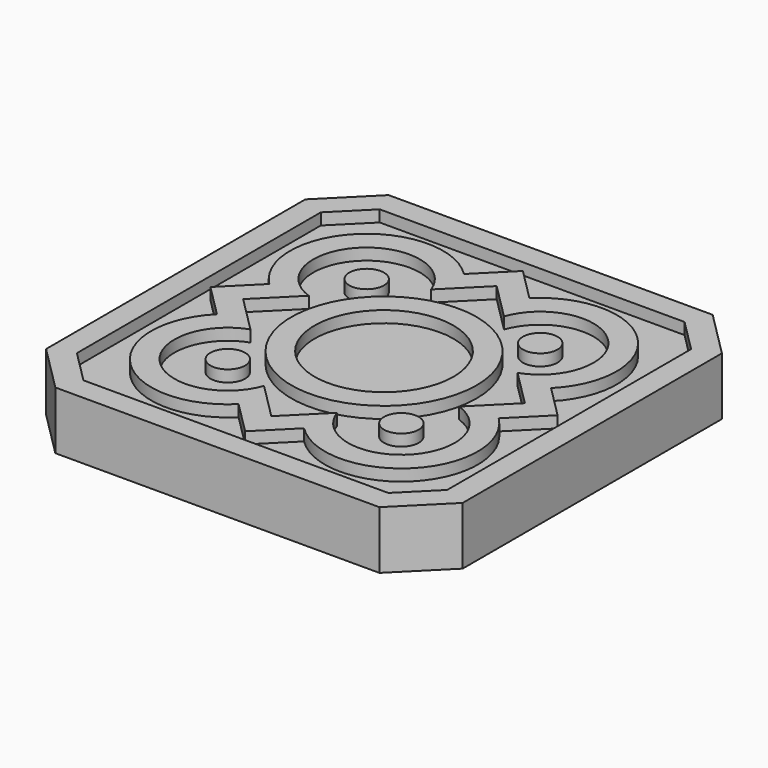
from build123d import *

# Parameters (mm, degrees)
F1_DEPTH = 6.35
F2_R     = 12.7
F2_R_2   = 9.525
F2_R_3   = 2.38125
F3_DEPTH = 1.5875
F4_W     = 3.175
F4_H     = 25.4
F5_DEPTH = 3.175
F6_W     = 38.1
F6_H     = 25.4
F7_DEPTH = 3.175


with BuildPart() as f1:
    # F0 (on Top) → F1 (new body)
    with BuildSketch(Plane.XY):
        Polygon((-6.35, 0), (-50.8, 0), (-57.15, -6.35), (-57.15, -50.8), (-50.8, -57.15), (-6.35, -57.15), (0, -50.8), (0, -6.35), align=None)
    extrude(amount=F1_DEPTH)

    # F2 (on face) → F3 (join)
    with BuildSketch(Plane.XY.offset(6.35)):
        Polygon((0, -6.35), (-6.35, 0), (-50.8, 0), (-57.15, -6.35), (-57.15, -50.8), (-50.8, -57.15), (-6.35, -57.15), (0, -50.8), align=None)
        Polygon((-3.175, -7.665128), (-3.175, -49.484872), (-7.665128, -53.975), (-49.484872, -53.975), (-53.975, -49.484872), (-53.975, -7.665128), (-49.484872, -3.175), (-7.665128, -3.175), align=None, mode=Mode.SUBTRACT)
        with BuildLine():
            Line((-28.575, -52.3875), (-24.084872, -47.897372))
            ThreePointArc((-24.084872, -47.897372), (-9.252628, -47.897372), (-9.252628, -33.065128))
            Line((-9.252628, -33.065128), (-4.7625, -28.575))
            Line((-4.7625, -28.575), (-9.252628, -24.084872))
            ThreePointArc((-9.252628, -24.084872), (-9.252628, -9.252628), (-24.084872, -9.252628))
            Line((-24.084872, -9.252628), (-28.575, -4.7625))
            Line((-28.575, -4.7625), (-33.065128, -9.252628))
            ThreePointArc((-33.065128, -9.252628), (-47.897372, -9.252628), (-47.897372, -24.084872))
            Line((-47.897372, -24.084872), (-52.3875, -28.575))
            Line((-52.3875, -28.575), (-47.897372, -33.065128))
            ThreePointArc((-47.897372, -33.065128), (-47.897372, -47.897372), (-33.065128, -47.897372))
            Line((-33.065128, -47.897372), (-28.575, -52.3875))
        make_face()
        with BuildLine():
            ThreePointArc((-23.572089, -14.255539), (-11.497692, -11.497692), (-14.255539, -23.572089))
            Line((-14.255539, -23.572089), (-9.252628, -28.575))
            Line((-9.252628, -28.575), (-14.255539, -33.577911))
            ThreePointArc((-14.255539, -33.577911), (-11.497692, -45.652308), (-23.572089, -42.894461))
            Line((-23.572089, -42.894461), (-28.575, -47.897372))
            Line((-28.575, -47.897372), (-33.577911, -42.894461))
            ThreePointArc((-33.577911, -42.894461), (-45.652308, -45.652308), (-42.894461, -33.577911))
            Line((-42.894461, -33.577911), (-47.897372, -28.575))
            Line((-47.897372, -28.575), (-42.894461, -23.572089))
            ThreePointArc((-42.894461, -23.572089), (-45.652308, -11.497692), (-33.577911, -14.255539))
            Line((-33.577911, -14.255539), (-28.575, -9.252628))
            Line((-28.575, -9.252628), (-23.572089, -14.255539))
        make_face(mode=Mode.SUBTRACT)
        with Locations((-28.575, -28.575)):
            Circle(F2_R)
        with Locations((-28.575, -28.575)):
            Circle(F2_R_2, mode=Mode.SUBTRACT)
        with Locations((-40.48125, -40.48125)):
            Circle(F2_R_3)
        with Locations((-16.66875, -40.48125)):
            Circle(F2_R_3)
        with Locations((-16.66875, -16.66875)):
            Circle(F2_R_3)
        with Locations((-40.48125, -16.66875)):
            Circle(F2_R_3)
    extrude(amount=F3_DEPTH)

    # F4 (on face) → F5 (join)
    with BuildSketch(Plane(origin=(0, 0, 0), x_dir=(1, 0, 0), z_dir=(0, 0, -1))):
        with Locations((-46.0375, 28.575)):
            Rectangle(F4_W, F4_H)
        with Locations((-11.1125, 28.575)):
            Rectangle(F4_W, F4_H)
    extrude(amount=F5_DEPTH)

    # F6 (on face) → F7 (join)
    with BuildSketch(Plane(origin=(0, 0, -3.175), x_dir=(1, 0, 0), z_dir=(0, 0, -1))):
        with Locations((-28.575, 28.575)):
            Rectangle(F6_W, F6_H)
    extrude(amount=F7_DEPTH)


solid = f1.part
